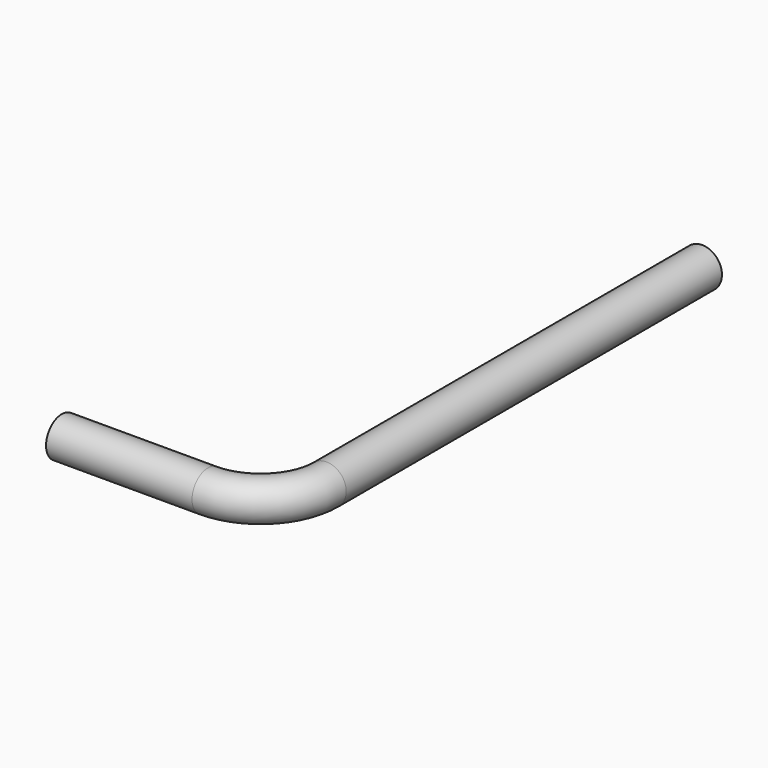
from build123d import *

# Parameters (mm, degrees)
F1_R = 6


with BuildPart() as f2:
    # F2: sweep along a path in F0
    with BuildLine(Plane.XY) as f2_path:
        Line((0, 0), (44.316, 0))
        ThreePointArc((44.316, 0), (58.458136, 5.857864), (64.316, 20))
        Line((64.316, 20), (64.316, 162.56))
    # F1 (on Right) → F2 (sweep)
    with BuildSketch(Plane.YZ):
        Circle(F1_R)
    sweep(path=f2_path.line)


solid = f2.part
